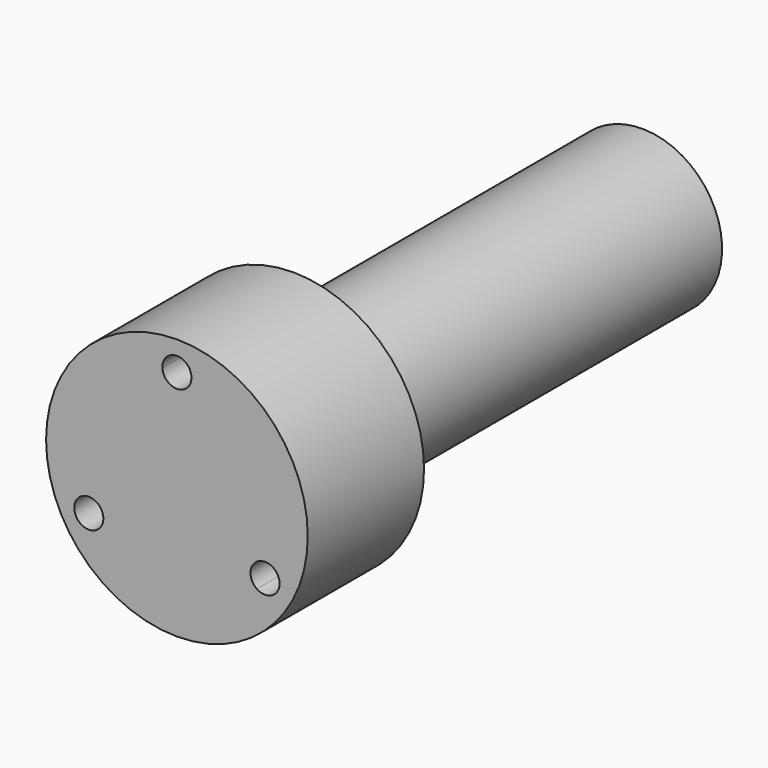
from build123d import *

# Parameters (mm, degrees)
F0_R     = 9
F1_DEPTH = 20
F2_R     = 0.75
F3_DEPTH = 8
F4_R     = 9
F4_R_2   = 5.5
F5_DEPTH = 30
F6_DEPTH = 10
F7_R     = 2.5
F8_DEPTH = 10


with BuildPart() as f1:
    # F0 (on Front) → F1 (new body, symmetric)
    with BuildSketch(Plane.XZ):
        Circle(F0_R)
    extrude(amount=F1_DEPTH, both=True)

    # F2 (on face) → F3 (cut)
    with BuildSketch(Plane.XZ.offset(20)):
        with BuildLine():
            ThreePointArc((1, 7), (-0.035737, 7.999361), (-0.997446, 6.928571))
            ThreePointArc((-0.997446, 6.928571), (0, 6), (0.997446, 6.928571))
            ThreePointArc((0.997446, 6.928571), (0.999361, 6.964263), (1, 7))
        make_face()
        with Locations((0, 7)):
            Circle(F2_R, mode=Mode.SUBTRACT)
        with BuildLine():
            ThreePointArc((-5.062178, -3.5), (-5.531548, -2.652396), (-6.499042, -2.600472))
            ThreePointArc((-6.499042, -2.600472), (-6.928203, -4), (-5.501596, -4.328099))
            ThreePointArc((-5.501596, -4.328099), (-5.178837, -3.968731), (-5.062178, -3.5))
        make_face()
        with Locations((-6.062178, -3.5)):
            Circle(F2_R, mode=Mode.SUBTRACT)
        with BuildLine():
            ThreePointArc((7.062178, -3.5), (6.909781, -2.96937), (6.499042, -2.600472))
            ThreePointArc((6.499042, -2.600472), (5.196152, -3), (5.501596, -4.328099))
            ThreePointArc((5.501596, -4.328099), (6.530909, -4.383341), (7.062178, -3.5))
        make_face()
        with Locations((6.062178, -3.5)):
            Circle(F2_R, mode=Mode.SUBTRACT)
    extrude(amount=-F3_DEPTH, mode=Mode.SUBTRACT)

    # F4 (on face) → F5 (cut)
    with BuildSketch(Plane(origin=(0, 20, 0), x_dir=(-1, 0, 0), z_dir=(0, 1, 0))):
        Circle(F4_R)
        Circle(F4_R_2, mode=Mode.SUBTRACT)
    extrude(amount=-F5_DEPTH, mode=Mode.SUBTRACT)

    # F2 (on face) → F6 (cut)
    with BuildSketch(Plane.XZ.offset(20)):
        with Locations((-6.062178, -3.5)):
            Circle(F2_R)
        with Locations((0, 7)):
            Circle(F2_R)
        with Locations((6.062178, -3.5)):
            Circle(F2_R)
    extrude(amount=-F6_DEPTH, mode=Mode.SUBTRACT)

    # F7 (on face) → F8 (cut)
    with BuildSketch(Plane(origin=(0, 20, 0), x_dir=(-1, 0, 0), z_dir=(0, 1, 0))):
        Circle(F7_R)
    extrude(amount=-F8_DEPTH, mode=Mode.SUBTRACT)


solid = f1.part
